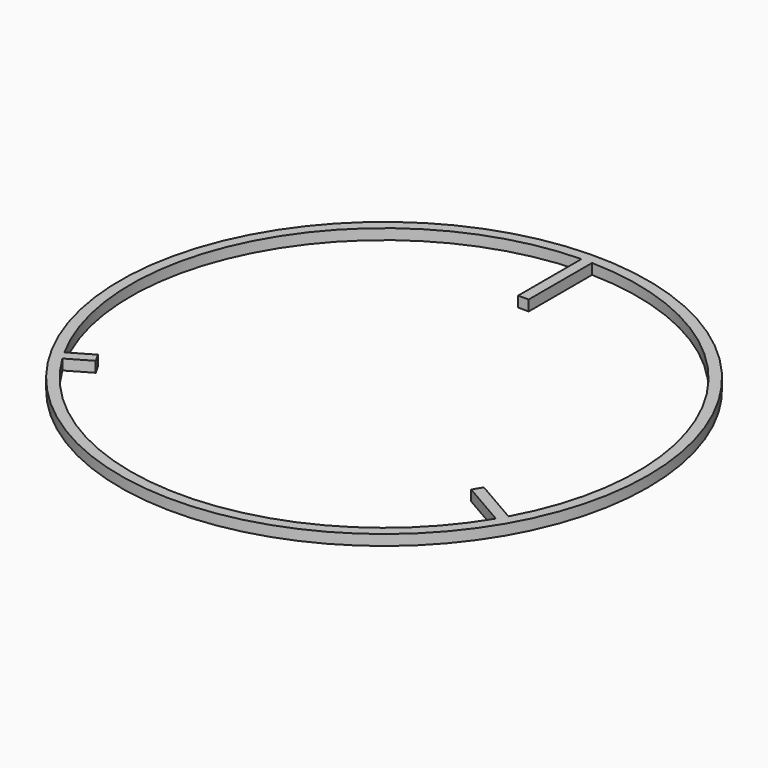
from build123d import *

# Parameters (mm, degrees)
SKETCH_R  = 50
PAD_DEPTH = 2


with BuildPart() as part:
    # Sketch → Pad (new body)
    with BuildSketch(Plane.XY):
        Circle(SKETCH_R)
        with BuildLine():
            ThreePointArc((-1, 47.989582), (-41.569219, 24), (-42.060197, -23.128766))
            Line((-42.060197, -23.128766), (-37.73007, -20.628766))
            Line((-37.73007, -20.628766), (-36.73007, -22.360817))
            Line((-36.73007, -22.360817), (-41.060197, -24.860817))
            ThreePointArc((-41.060197, -24.860817), (0, -48), (41.060197, -24.860817))
            Line((41.060197, -24.860817), (32.399943, -19.860817))
            Line((32.399943, -19.860817), (33.399943, -18.128766))
            Line((33.399943, -18.128766), (42.060197, -23.128766))
            ThreePointArc((42.060197, -23.128766), (41.569219, 24), (1, 47.989582))
            Line((1, 32.989582), (1, 47.989582))
            Line((-1, 32.989582), (1, 32.989582))
            Line((-1, 47.989582), (-1, 32.989582))
        make_face(mode=Mode.SUBTRACT)
    extrude(amount=PAD_DEPTH)


solid = part.part
